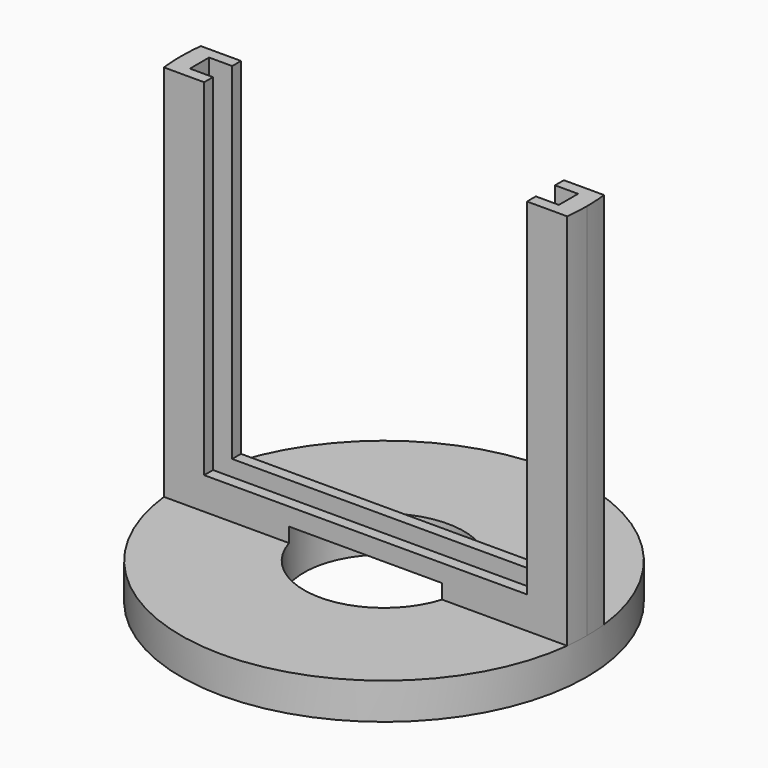
from build123d import *

# Parameters (mm, degrees)
F0_R     = 27.94
F1_DEPTH = 5
F3_DEPTH = 52.054
F4_W     = 50.8
F4_H     = 3.302
F5_DEPTH = 50.8
F6_W     = 44.45
F6_H     = 6.35
F7_DEPTH = 47.625
F8_R     = 11
F9_DEPTH = 7


with BuildPart() as f1:
    # F0 (on Top) → F1 (new body)
    with BuildSketch(Plane.XY):
        Circle(F0_R)
    extrude(amount=F1_DEPTH)

    # F2 (on face) → F3 (join)
    with BuildSketch(Plane.XY.offset(5)):
        with BuildLine():
            ThreePointArc((27.94, 0), (27.8947173307, 1.5900770556), (27.7590161029, 3.175))
            Line((27.7590161029, 3.175), (-27.7590161029, 3.175))
            ThreePointArc((-27.7590161029, 3.175), (-27.8947173307, 1.5900770556), (-27.94, 0))
            ThreePointArc((-27.94, 0), (-27.8947173307, -1.5900770556), (-27.7590161029, -3.175))
            Line((-27.7590161029, -3.175), (27.7590161029, -3.175))
            ThreePointArc((27.7590161029, -3.175), (27.8947173307, -1.5900770556), (27.94, 0))
        make_face()
    extrude(amount=F3_DEPTH)

    # F4 (on face) → F5 (cut)
    with BuildSketch(Plane.XY.offset(57.054)):
        Rectangle(F4_W, F4_H)
    extrude(amount=-F5_DEPTH, mode=Mode.SUBTRACT)

    # F6 (on face) → F7 (cut)
    with BuildSketch(Plane.XY.offset(57.054)):
        Rectangle(F6_W, F6_H)
    extrude(amount=-F7_DEPTH, mode=Mode.SUBTRACT)

    # F8 (on face) → F9 (cut)
    with BuildSketch(Plane(origin=(0, 0, 0), x_dir=(1, 0, 0), z_dir=(0, 0, -1))):
        Circle(F8_R)
    extrude(amount=-F9_DEPTH, mode=Mode.SUBTRACT)


solid = f1.part
